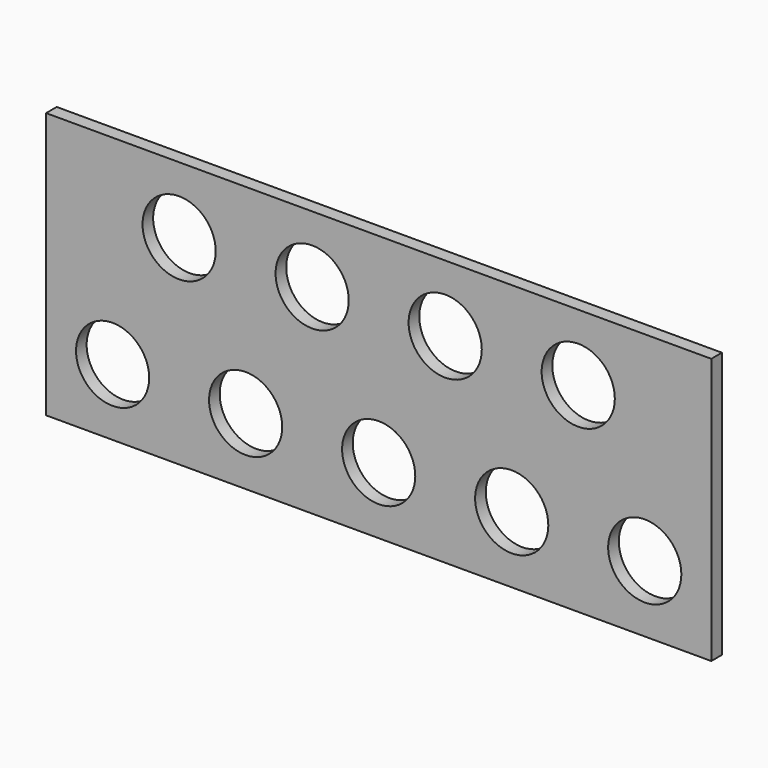
from build123d import *

# Parameters (mm, degrees)
F0_W     = 254
F0_H     = 101.6
F0_R     = 13.97
F1_DEPTH = 5.08


with BuildPart() as f1:
    # F0 (on Front) → F1 (new body)
    with BuildSketch(Plane.XZ):
        with Locations((127, 50.8)):
            Rectangle(F0_W, F0_H)
        with Locations((25.4, 25.4)):
            Circle(F0_R, mode=Mode.SUBTRACT)
        with Locations((76.2, 25.4)):
            Circle(F0_R, mode=Mode.SUBTRACT)
        with Locations((127, 25.4)):
            Circle(F0_R, mode=Mode.SUBTRACT)
        with Locations((177.8, 25.4)):
            Circle(F0_R, mode=Mode.SUBTRACT)
        with Locations((228.6, 25.4)):
            Circle(F0_R, mode=Mode.SUBTRACT)
        with Locations((50.8, 76.2)):
            Circle(F0_R, mode=Mode.SUBTRACT)
        with Locations((101.6, 76.2)):
            Circle(F0_R, mode=Mode.SUBTRACT)
        with Locations((152.4, 76.2)):
            Circle(F0_R, mode=Mode.SUBTRACT)
        with Locations((203.2, 76.2)):
            Circle(F0_R, mode=Mode.SUBTRACT)
    extrude(amount=F1_DEPTH)


solid = f1.part
